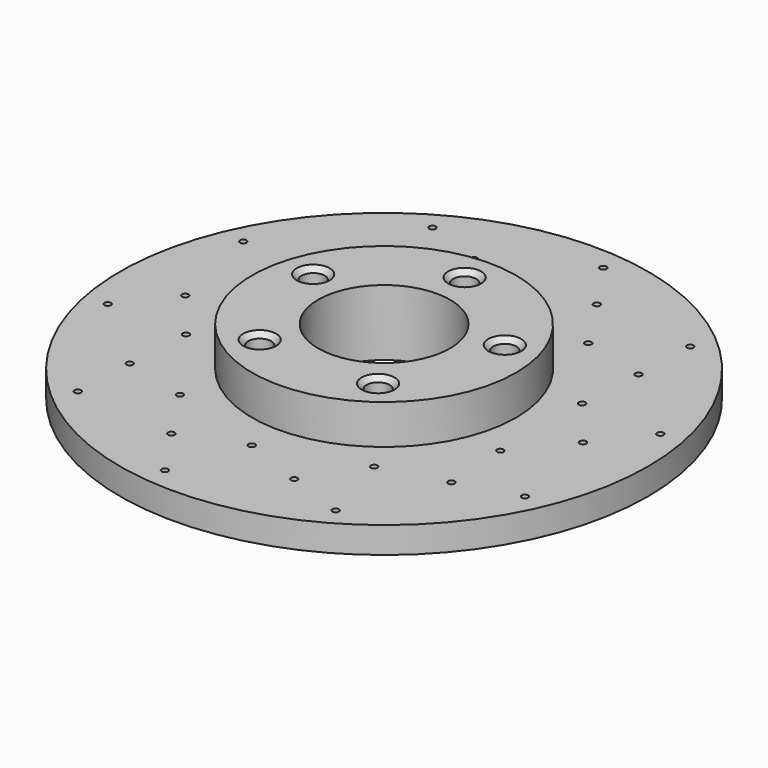
from build123d import *

# Parameters (mm, degrees)
F0_R           = 101.673036
F1_DEPTH       = 10.16
F2_R           = 50.825474
F3_DEPTH       = 15.24
F5_D           = 50.8
F7_D           = 8.89
F7_CSINK_D     = 12.7
F7_CSINK_ANGLE = 90
F9_D           = 2.54


with BuildPart() as f1:
    # F0 (on Top) → F1 (new body)
    with BuildSketch(Plane.XY):
        Circle(F0_R)
    extrude(amount=F1_DEPTH)

    # F2 (on face) → F3 (join)
    with BuildSketch(Plane.XY.offset(10.16)):
        Circle(F2_R)
    extrude(amount=F3_DEPTH)

    # F5 (through all)
    with Locations(Plane.XY.offset(25.4)):
        with Locations((0, 0)):
            Hole(F5_D / 2)

    # F7 (through all)
    with Locations(Plane.XY.offset(25.4)):
        with Locations((0, 38.806446), (-36.907123, 11.991851), (-22.809857, -31.395074), (22.809857, -31.395074), (36.907123, 11.991851)):
            CounterSinkHole(F7_D / 2, F7_CSINK_D / 2, counter_sink_angle=F7_CSINK_ANGLE)

    # F9 (through all)
    with Locations(Plane.XY.offset(10.16)):
        with Locations((10.266128, 92.69405), (-46.178724, 81.025341), (-23.668928, 72.845469), (0.032693, 63.665586), (23.668928, 72.845469), (37.448142, 51.487324), (62.789668, 68.956783), (61.966057, 45.020975), (60.559673, 19.642655), (91.329689, 18.880369), (76.594258, 0), (60.539468, -19.704841), (84.984873, -38.407705), (61.966057, -45.020975), (37.395243, -51.525757), (46.178724, -81.025341), (23.668928, -72.845469), (-0.032693, -63.665586), (-10.266128, -92.69405), (-23.668928, -72.845469), (-37.448142, -51.487324), (-62.789668, -68.956783), (-61.966057, -45.020975), (-60.559673, -19.642655), (-91.329689, -18.880369), (-76.594258, 0), (-60.539468, 19.704841), (-84.984873, 38.407705), (-61.966057, 45.020975), (-37.395243, 51.525757)):
            Hole(F9_D / 2)


solid = f1.part
